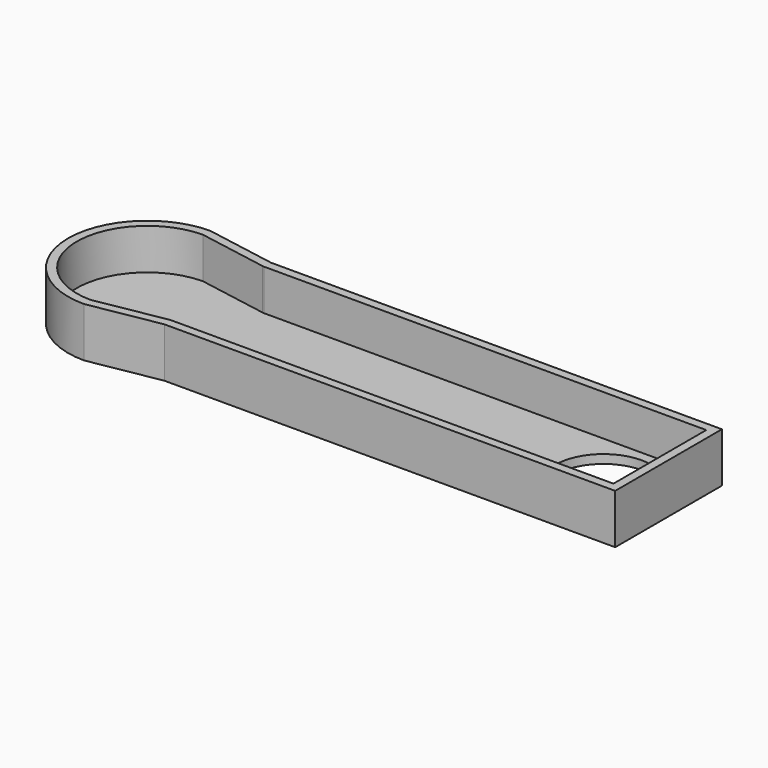
from build123d import *

# Parameters (mm, degrees)
PAD009_DEPTH    = 8
THICKNESS_T     = -1.4
SKETCH017_R     = 7.75
POCKET006_DEPTH = 1.401


with BuildPart() as part:
    # Sketch016 → Pad009 (new body)
    with BuildSketch(Plane.XY):
        with BuildLine():
            Line((-8.657434, 10.75), (64, 10.75))
            Line((64, 10.75), (64, -10.75))
            Line((64, -10.75), (-8.657434, -10.75))
            Line((-19.999998, -12.75), (-8.657434, -10.75))
            ThreePointArc((-19.999998, 12.75), (-32.75, 0), (-19.999998, -12.75))
            Line((-19.999998, 12.75), (-8.657434, 10.75))
        make_face()
    extrude(amount=PAD009_DEPTH)

    # Thickness
    thickness_openings = [part.faces().sort_by_distance(p)[0] for p in [
        (15.774779, 0, 8),
    ]]
    offset(amount=THICKNESS_T, openings=thickness_openings)

    # Sketch017 (on Face17 of Thickness) → Pocket006 (cut, through all)
    with BuildSketch(Plane.XY.offset(1.4)):
        with Locations((53.5, 0)):
            Circle(SKETCH017_R)
    extrude(amount=-POCKET006_DEPTH, mode=Mode.SUBTRACT)


solid = part.part
